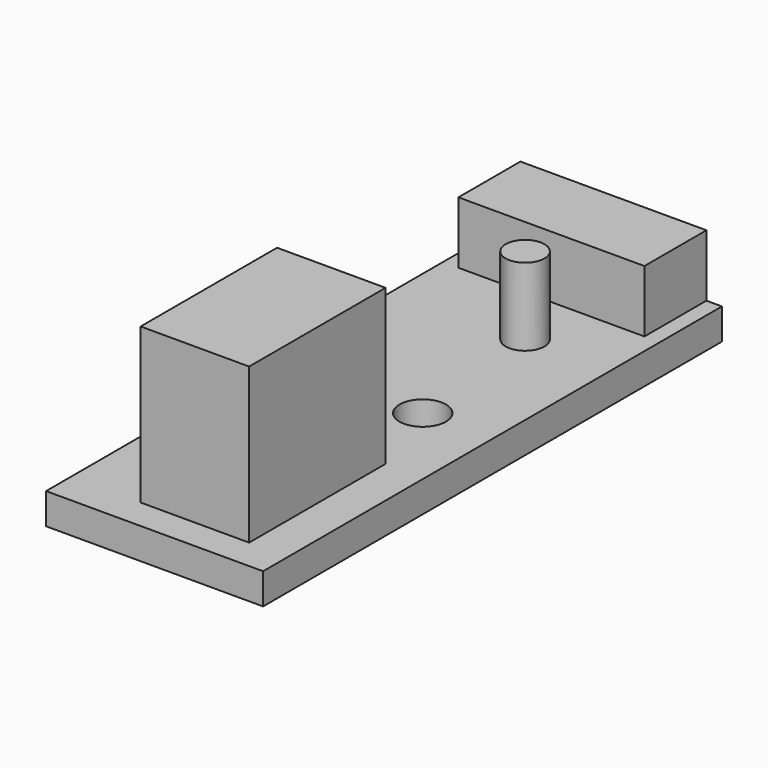
from build123d import *

# Parameters (mm, degrees)
F0_W     = 14
F0_H     = 37
F0_R     = 1.5
F1_DEPTH = 2
F2_W     = 12
F2_H     = 5
F3_DEPTH = 4
F4_R     = 1.25
F5_DEPTH = 5
F6_W     = 7
F6_H     = 11
F7_DEPTH = 10


with BuildPart() as f1:
    # F0 (on Top) → F1 (new body)
    with BuildSketch(Plane.XY):
        with Locations((-2.5, 0)):
            Rectangle(F0_W, F0_H)
        Circle(F0_R, mode=Mode.SUBTRACT)
    extrude(amount=F1_DEPTH)

    # F2 (on face) → F3 (join)
    with BuildSketch(Plane.XY.offset(2)):
        with Locations((-2.5, 16)):
            Rectangle(F2_W, F2_H)
    extrude(amount=F3_DEPTH)

    # F4 (on face) → F5 (join)
    with BuildSketch(Plane.XY.offset(2)):
        with Locations((-1, 9.5)):
            Circle(F4_R)
    extrude(amount=F5_DEPTH)

    # F6 (on face) → F7 (join)
    with BuildSketch(Plane.XY.offset(2)):
        with Locations((-1.5, -11)):
            Rectangle(F6_W, F6_H)
    extrude(amount=F7_DEPTH)


solid = f1.part
